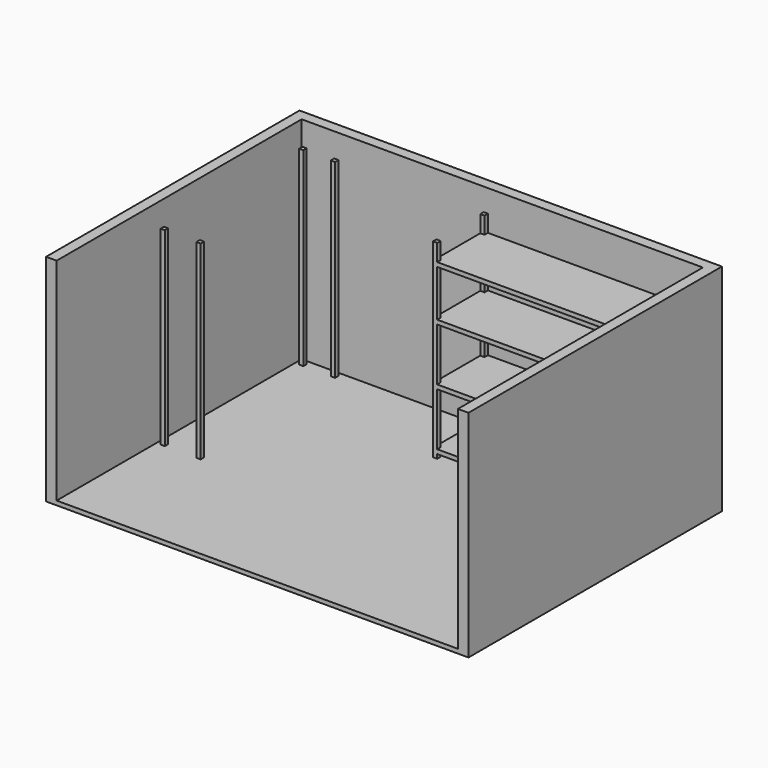
from build123d import *

# Parameters (mm, degrees)
F0_W      = 200
F0_H      = 150
F1_DEPTH  = 2
F2_W      = 5
F2_H      = 5
F2_W_2    = 190
F2_H_2    = 145
F3_DEPTH  = 100
F4_W      = 2
F4_H      = 2
F5_DEPTH  = 90
F7_W      = 2
F7_H      = 2
F8_DEPTH  = 2
F10_W     = 2
F10_H     = 2
F11_DEPTH = 2
F13_W     = 2
F13_H     = 2
F14_DEPTH = 2
F16_W     = 102
F16_H     = 30
F17_DEPTH = 2


with BuildPart() as f1:
    # F0 (on Top) → F1 (new body)
    with BuildSketch(Plane.XY):
        Rectangle(F0_W, F0_H)
    extrude(amount=F1_DEPTH)

    # F2 (on face) → F3 (join)
    with BuildSketch(Plane.XY.offset(2)):
        with Locations((-97.5, 72.5)):
            Rectangle(F2_W, F2_H)
        with Locations((0, 72.5)):
            Rectangle(F2_W_2, F2_H)
        with Locations((-97.5, -2.5)):
            Rectangle(F2_W, F2_H_2)
        with Locations((97.5, 72.5)):
            Rectangle(F2_W, F2_H)
        with Locations((97.5, -2.5)):
            Rectangle(F2_W, F2_H_2)
    extrude(amount=F3_DEPTH)

    # F4 (on face) → F5 (join)
    with BuildSketch(Plane.XY.offset(2)):
        with Locations((93, 68)):
            Rectangle(F4_W, F4_H)
        with Locations((-7, 68)):
            Rectangle(F4_W, F4_H)
        with Locations((-7, 40)):
            Rectangle(F4_W, F4_H)
        with Locations((93, 40)):
            Rectangle(F4_W, F4_H)
        with Locations((-92, 67)):
            Rectangle(F4_W, F4_H)
        with Locations((-92, -15)):
            Rectangle(F4_W, F4_H)
        with Locations((-77, 67)):
            Rectangle(F4_W, F4_H)
        with Locations((-75, -15)):
            Rectangle(F4_W, F4_H)
    extrude(amount=F5_DEPTH)

    # F7 (on offset) → F8 (join)
    with BuildSketch(Plane.XY.offset(82)):
        with Locations((-7, 40)):
            Rectangle(F7_W, F7_H)
        Polygon((-8, 69), (-8, 41), (-6, 41), (-6, 39), (94, 39), (94, 67), (92, 67), (92, 69), align=None)
        with Locations((93, 68)):
            Rectangle(F7_W, F7_H)
    extrude(amount=F8_DEPTH)

    # F10 (on offset) → F11 (join)
    with BuildSketch(Plane.XY.offset(4)):
        Polygon((92, 41), (94, 41), (94, 67), (92, 67), (92, 69), (-6, 69), (-6, 67), (-8, 67), (-8, 41), (-6, 41), (-6, 39), (92, 39), align=None)
        with Locations((93, 40)):
            Rectangle(F10_W, F10_H)
        with Locations((93, 68)):
            Rectangle(F10_W, F10_H)
        with Locations((-7, 40)):
            Rectangle(F10_W, F10_H)
        with Locations((-7, 68)):
            Rectangle(F10_W, F10_H)
    extrude(amount=F11_DEPTH)

    # F13 (on offset) → F14 (join)
    with BuildSketch(Plane.XY.offset(31)):
        Polygon((92, 41), (94, 41), (94, 67), (92, 67), (92, 69), (-6, 69), (-6, 67), (-8, 67), (-8, 41), (-6, 41), (-6, 39), (92, 39), align=None)
        with Locations((93, 40)):
            Rectangle(F13_W, F13_H)
        with Locations((93, 68)):
            Rectangle(F13_W, F13_H)
        with Locations((-7, 40)):
            Rectangle(F13_W, F13_H)
        with Locations((-7, 68)):
            Rectangle(F13_W, F13_H)
    extrude(amount=F14_DEPTH)

    # F16 (on offset) → F17 (join)
    with BuildSketch(Plane.XY.offset(58)):
        with Locations((43, 54)):
            Rectangle(F16_W, F16_H)
    extrude(amount=F17_DEPTH)


solid = f1.part
